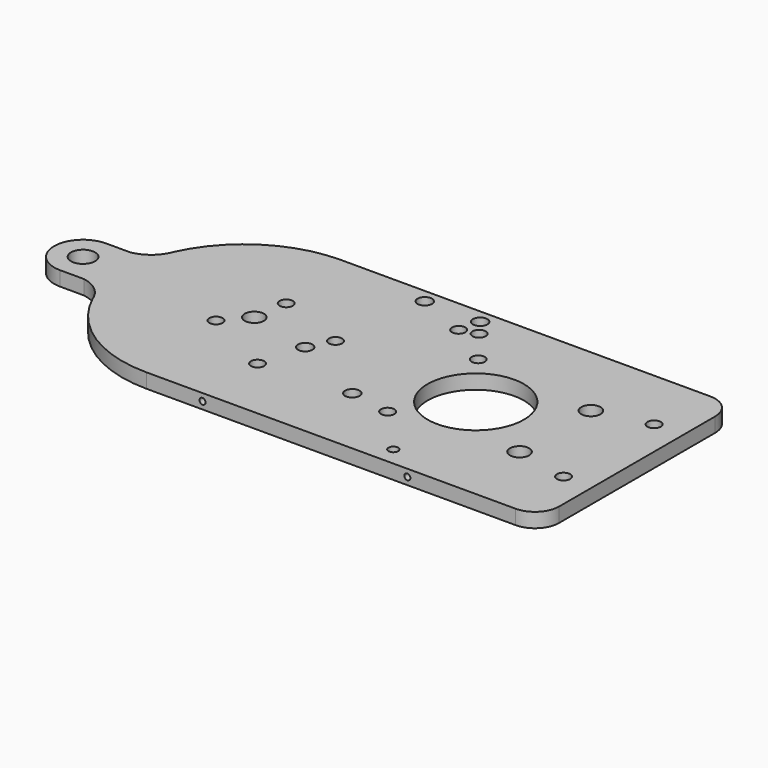
from build123d import *

# Parameters (mm, degrees)
F0_R     = 5
F0_R_2   = 2.75
F0_R_3   = 3
F0_R_4   = 2
F0_R_5   = 20
F0_R_6   = 4
F1_DEPTH = 6
F4_D     = 2.5
F4_DEPTH = 7.6
F4_TIP   = 0.7510757738
F7_D     = 2.5
F7_DEPTH = 7.6
F7_TIP   = 0.7510757738


with BuildPart() as f1:
    # F0 (on Top) → F1 (new body)
    with BuildSketch(Plane.XY):
        with BuildLine():
            Line((57, 50.5), (-96.28, 50.5))
            ThreePointArc((-96.28, 50.5), (-123.5701507697, 42.4911481484), (-142.2043500731, 21.0048582562))
            ThreePointArc((-142.2043500731, 21.0048582562), (-142.5276249328, 20.1970602892), (-142.900454883, 19.4109038043))
            ThreePointArc((-142.900454883, 19.4109038043), (-147.0751075285, 14.512842569), (-153, 12))
            Line((-153, 12), (-163, 12))
            ThreePointArc((-163, 12), (-175, 0), (-163, -12))
            Line((-163, -12), (-153, -12))
            ThreePointArc((-153, -12), (-147.0751075285, -14.512842569), (-142.900454883, -19.4109038043))
            ThreePointArc((-142.900454883, -19.4109038043), (-142.5276249328, -20.1970602892), (-142.2043500731, -21.0048582562))
            ThreePointArc((-142.2043500731, -21.0048582562), (-123.5701507697, -42.4911481484), (-96.28, -50.5))
            Line((-96.28, -50.5), (57, -50.5))
            ThreePointArc((57, -50.5), (64.0710678119, -47.5710678119), (67, -40.5))
            Line((67, -40.5), (67, 40.5))
            ThreePointArc((67, 40.5), (64.0710678119, 47.5710678119), (57, 50.5))
        make_face()
        with Locations((-163, 0)):
            Circle(F0_R, mode=Mode.SUBTRACT)
        with Locations((-72, -23.2)):
            Circle(F0_R_2, mode=Mode.SUBTRACT)
        with Locations((-101.41, -8)):
            Circle(F0_R_2, mode=Mode.SUBTRACT)
        with Locations((-67.15, -4.55)):
            Circle(F0_R_3, mode=Mode.SUBTRACT)
        with Locations((0, -42.7629426122)):
            Circle(F0_R_4, mode=Mode.SUBTRACT)
        with Locations((-35, -20.3005317599)):
            Circle(F0_R_3, mode=Mode.SUBTRACT)
        with Locations((-18, -23.2)):
            Circle(F0_R_2, mode=Mode.SUBTRACT)
        Circle(F0_R_5, mode=Mode.SUBTRACT)
        with Locations((33, -18.5)):
            Circle(F0_R_6, mode=Mode.SUBTRACT)
        with Locations((55, -23.2)):
            Circle(F0_R_2, mode=Mode.SUBTRACT)
        with Locations((-93.1177586317, 1.52)):
            Circle(F0_R_6, mode=Mode.SUBTRACT)
        with Locations((-62.2, 5)):
            Circle(F0_R_2, mode=Mode.SUBTRACT)
        with Locations((-91.15, 15.6)):
            Circle(F0_R_2, mode=Mode.SUBTRACT)
        with Locations((-57, 44.8)):
            Circle(F0_R_3, mode=Mode.SUBTRACT)
        with Locations((-18, 23.8)):
            Circle(F0_R_2, mode=Mode.SUBTRACT)
        with Locations((33, 18.5)):
            Circle(F0_R_6, mode=Mode.SUBTRACT)
        with Locations((55, 23.8)):
            Circle(F0_R_2, mode=Mode.SUBTRACT)
        with Locations((-35.9, 36)):
            Circle(F0_R_2, mode=Mode.SUBTRACT)
        with Locations((-29, 38)):
            Circle(F0_R_2, mode=Mode.SUBTRACT)
        with Locations((-34, 44.8)):
            Circle(F0_R_3, mode=Mode.SUBTRACT)
    extrude(amount=F1_DEPTH)

    # F4
    with Locations(Plane.XZ.offset(50.5)):
        with Locations((-73, 3), (12, 3)):
            Hole(F4_D / 2, depth=F4_DEPTH)
            with Locations((0, 0, -(F4_DEPTH + F4_TIP / 2))):  # 118° drill point
                Cone(0, F4_D / 2, F4_TIP, mode=Mode.SUBTRACT)

    # F7
    with Locations(Plane(origin=(0, 50.5, 0), x_dir=(-1, 0, 0), z_dir=(0, 1, 0))):
        with Locations((-12, 3), (73, 3)):
            Hole(F7_D / 2, depth=F7_DEPTH)
            with Locations((0, 0, -(F7_DEPTH + F7_TIP / 2))):  # 118° drill point
                Cone(0, F7_D / 2, F7_TIP, mode=Mode.SUBTRACT)


solid = f1.part
